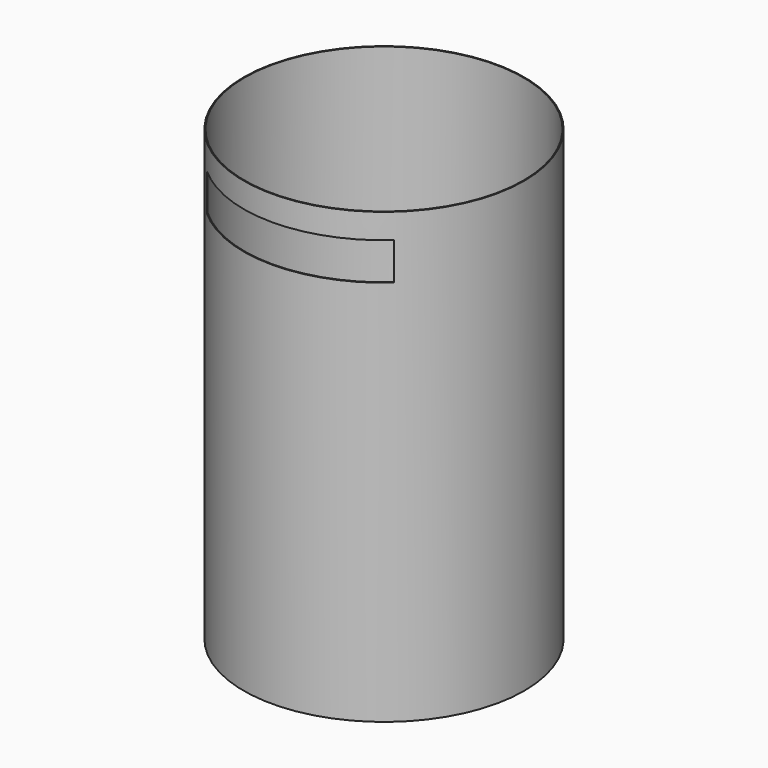
from build123d import *

# Parameters (mm, degrees)
F0_R     = 285.75
F0_R_2   = 284.0482
F1_DEPTH = 914.4
F2_W     = 381
F2_H     = 76.2
F3_DEPTH = 285.751


with BuildPart() as f1:
    # F0 (on Top) → F1 (new body)
    with BuildSketch(Plane.XY):
        Circle(F0_R)
        Circle(F0_R_2, mode=Mode.SUBTRACT)
    extrude(amount=F1_DEPTH)

    # F2 (on Front) → F3 (cut, through all)
    with BuildSketch(Plane.XZ):
        with Locations((0, 825.5)):
            Rectangle(F2_W, F2_H)
    extrude(amount=F3_DEPTH, mode=Mode.SUBTRACT)


solid = f1.part
